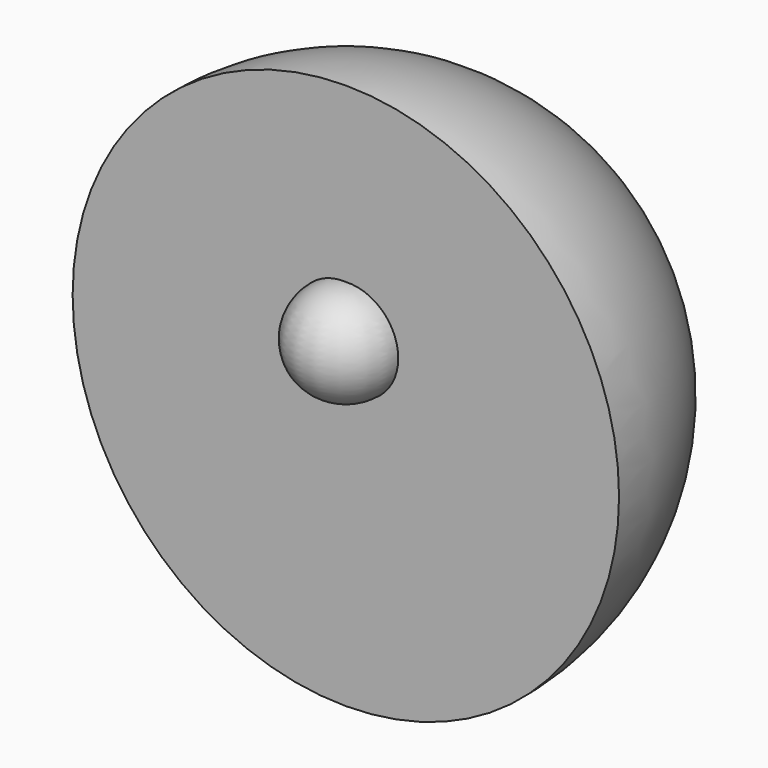
from build123d import *

# Parameters (mm, degrees)
F1_ANGLE = 180


with BuildPart() as f1:
    # F0 (on Front) → F1 (revolve)
    with BuildSketch(Plane.XZ):
        with BuildLine():
            Line((0, 40), (0, 0))
            ThreePointArc((0, 0), (20, 20), (0, 40))
        make_face()
    revolve(axis=Axis((0, 0, 20), (0, 0, 1)), revolution_arc=F1_ANGLE)

    # F2 (on face) → F3 (revolve)
    with BuildSketch(Plane.XZ):
        with BuildLine():
            Line((0, 27.337577), (0, 20))
            ThreePointArc((0, 20), (3.836304, 23.668789), (0, 27.337577))
        make_face()
    revolve(axis=Axis((0, 0, 23.668789), (0, 0, 1)))


solid = f1.part
